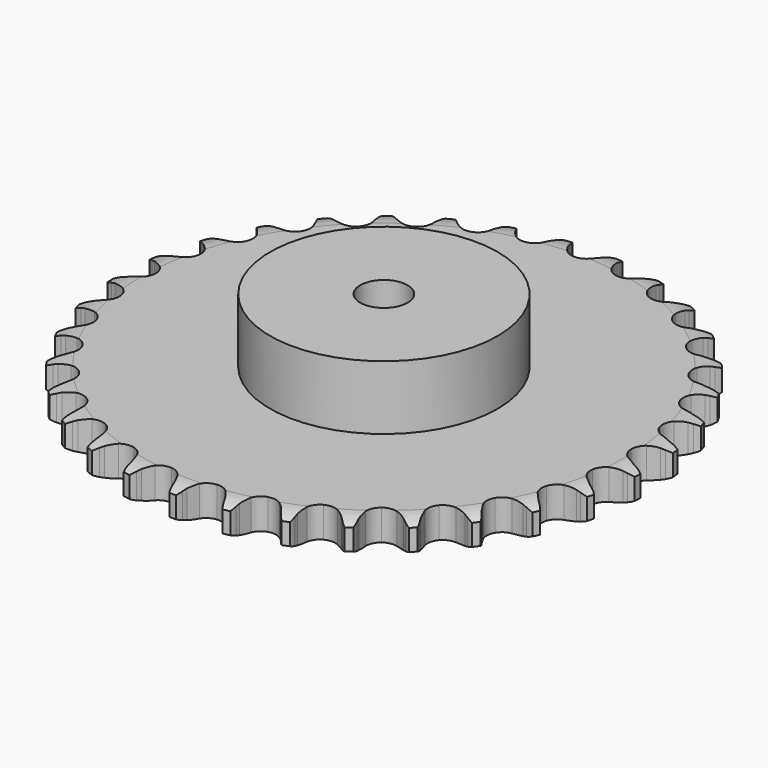
from build123d import *

# Parameters (mm, degrees)
PAD_DEPTH         = 16.2
SKETCH001_R       = 60
PAD001_DEPTH      = 50
SKETCH002_R       = 12.5
POCKET_DEPTH      = 0.0010001
POCKET_DEPTH_BACK = 50.001


with BuildPart() as part:
    # Sprocket → Pad (new body)
    with BuildSketch(Plane.XY):
        with BuildLine():
            ThreePointArc((-13.4743174751, 141.1094366651), (-11.4369527864, 138.7768297397), (-10.0122338266, 136.0269050446))
            Line((-10.0122338266, 136.0269050446), (-9.2375381182, 133.9565564462))
            ThreePointArc((-9.2375381182, 133.9565564462), (-8.0117576866, 131.2780970466), (-6.4185795615, 128.8005042868))
            ThreePointArc((-6.4185795615, 128.8005042868), (-3.5889052668, 126.4356733927), (0, 125.5875927614))
            ThreePointArc((0, 125.5875927614), (3.5889052668, 126.4356733927), (6.4185795615, 128.8005042868))
            ThreePointArc((6.4185795615, 128.8005042868), (8.0117576866, 131.2780970466), (9.2375381182, 133.9565564462))
            Line((9.2375381182, 133.9565564462), (10.0122338266, 136.0269050446))
            ThreePointArc((10.0122338266, 136.0269050446), (11.4369527864, 138.7768297397), (13.4743174751, 141.1094366651))
            ThreePointArc((13.4743174751, 141.1094366651), (15.0334155665, 138.4334091831), (15.9119613282, 135.4635493736))
            Line((15.9119613282, 135.4635493736), (16.2808412274, 133.2840025447))
            ThreePointArc((16.2808412274, 133.2840025447), (16.9775684353, 130.4219659238), (18.0730682434, 127.6876355502))
            ThreePointArc((18.0730682434, 127.6876355502), (20.4040594479, 124.8300208497), (23.7676082063, 123.3180613526))
            ThreePointArc((23.7676082063, 123.3180613526), (27.4521575944, 123.4716112744), (30.6782431776, 125.2581872121))
            Line((30.6782431776, 125.2581872121), (34.422048768, 129.7875713773))
            ThreePointArc((34.422048768, 129.7875713773), (34.973133415, 130.7461119455), (35.5745607642, 131.6738939526))
            ThreePointArc((35.5745607642, 131.6738939526), (37.4939598668, 134.1044940901), (39.9359554847, 136.009373967))
            ThreePointArc((39.9359554847, 136.009373967), (40.9604371115, 133.0866445338), (41.2610567423, 130.0041880815))
            Line((41.2610567423, 130.0041880815), (41.2107885516, 127.7942175232))
            ThreePointArc((41.2107885516, 127.7942175232), (41.3532809994, 124.8520451414), (41.9115082731, 121.9598029779))
            ThreePointArc((41.9115082731, 121.9598029779), (43.6595682918, 118.7126861117), (46.6761931262, 116.5914939044))
            ThreePointArc((46.6761931262, 116.5914939044), (50.3232174206, 116.0449634225), (53.8291151539, 117.1887128945))
            Line((53.8291151539, 117.1887128945), (58.3624568896, 120.9277253206))
            ThreePointArc((58.3624568896, 120.9277253206), (59.0849877144, 121.7646503569), (59.8511303872, 122.5618452602))
            ThreePointArc((59.8511303872, 122.5618452602), (62.1958375481, 124.5852726181), (64.9542040109, 125.9935781247))
            ThreePointArc((64.9542040109, 125.9935781247), (65.407041738, 122.9297817973), (65.1188700611, 119.8461367094))
            Line((65.1188700611, 119.8461367094), (64.651270604, 117.6856165158))
            ThreePointArc((64.651270604, 117.6856165158), (64.2343782432, 114.7696461488), (64.2351571945, 111.8240253628))
            ThreePointArc((64.2351571945, 111.8240253628), (65.3371065839, 108.3047655947), (67.8977788128, 105.6510060903))
            ThreePointArc((67.8977788128, 105.6510060903), (71.3754650533, 104.4241482403), (75.0344626582, 104.8837331607))
            Line((75.0344626582, 104.8837331607), (80.1934937572, 107.6972361968))
            ThreePointArc((80.1934937572, 107.6972361968), (81.0613566133, 108.3822970496), (81.9645242174, 109.0200921483))
            ThreePointArc((81.9645242174, 109.0200921483), (84.6497956107, 110.56321479), (87.6248383677, 111.424046096))
            ThreePointArc((87.6248383677, 111.424046096), (87.4896654597, 108.3299164561), (86.6231177504, 105.3565337006))
            Line((86.6231177504, 105.3565337006), (85.7550872895, 103.3235507006))
            ThreePointArc((85.7550872895, 103.3235507006), (84.7938776963, 100.5391731149), (84.2371801717, 97.6466361164))
            ThreePointArc((84.2371801717, 97.6466361164), (84.6531916098, 93.9824286639), (86.6653618672, 90.8920156451))
            ThreePointArc((86.6653618672, 90.8920156451), (89.8480174121, 89.0291722662), (93.5278691816, 88.7879820386))
            Line((93.5278691816, 88.7879820386), (99.1261288184, 90.5742883543))
            ThreePointArc((99.1261288184, 90.5742883543), (100.1079568809, 91.0827251397), (101.1155065859, 91.5380688571))
            ThreePointArc((101.1155065859, 91.5380688571), (104.0442895071, 92.5451143098), (107.1284827616, 92.8273587288))
            ThreePointArc((107.1284827616, 92.8273587288), (106.4101847196, 89.8147256834), (104.9965802698, 87.0590710601))
            Line((104.9965802698, 87.0590710601), (103.7594916877, 85.2271025562))
            ThreePointArc((103.7594916877, 85.2271025562), (102.2887054812, 82.6749524124), (101.1946519797, 79.9400430249))
            ThreePointArc((101.1946519797, 79.9400430249), (100.9096897292, 76.2633218923), (102.3006329393, 72.8479509377))
            ThreePointArc((102.3006329393, 72.8479509377), (105.0732283248, 70.4164500432), (108.6409348283, 69.4832019107))
            Line((108.6409348283, 69.4832019107), (114.4760873134, 70.1777497417))
            ThreePointArc((114.4760873134, 70.1777497417), (115.5363947581, 70.4911862294), (116.6119110925, 70.7476212573))
            ThreePointArc((116.6119110925, 70.7476212573), (119.6783516959, 71.1821922744), (122.7602246679, 70.8756487578))
            ThreePointArc((122.7602246679, 70.8756487578), (121.4847626547, 68.0533967145), (119.5751928124, 65.6150667613))
            Line((119.5751928124, 65.6150667613), (118.0137577135, 64.0503248684))
            ThreePointArc((118.0137577135, 64.0503248684), (116.0865529393, 61.8226435223), (114.4946854051, 59.3442084968))
            ThreePointArc((114.4946854051, 59.3442084968), (113.5190487441, 55.7878599654), (114.2384925953, 52.1709714799))
            ThreePointArc((114.2384925953, 52.1709714799), (116.5008190003, 49.2586938473), (119.8274340291, 47.6671178291))
            Line((119.8274340291, 47.6671178291), (125.6885817485, 47.2448044072))
            ThreePointArc((125.6885817485, 47.2448044072), (126.7890463016, 47.3519121859), (127.8936573029, 47.4001702941))
            ThreePointArc((127.8936573029, 47.4001702941), (130.9869264356, 47.2465603469), (133.9550922061, 46.362308176))
            ThreePointArc((133.9550922061, 46.362308176), (132.1685647419, 43.832440677), (129.8320463366, 41.7995629914))
            Line((129.8320463366, 41.7995629914), (128.0026990537, 40.5586015584))
            ThreePointArc((128.0026990537, 40.5586015584), (125.6887299136, 38.7359032179), (123.656582587, 36.6035196538))
            ThreePointArc((123.656582587, 36.6035196538), (122.0255335665, 33.2960794254), (122.0474754834, 29.6083971826))
            ThreePointArc((122.0474754834, 29.6083971826), (123.7177665372, 26.3206001136), (126.6830575568, 24.1282199137))
            Line((126.6830575568, 24.1282199137), (132.3583633607, 22.6043087462))
            ThreePointArc((132.3583633607, 22.6043087462), (133.4592113662, 22.5012166617), (134.5529935146, 22.3395536765))
            ThreePointArc((134.5529935146, 22.3395536765), (137.5612923707, 21.6033146287), (140.3084736954, 20.173312981))
            ThreePointArc((140.3084736954, 20.173312981), (138.0754505376, 18.027266029), (135.3964314321, 16.4733141072))
            Line((135.3964314321, 16.4733141072), (133.3652893424, 15.6009847136))
            ThreePointArc((133.3652893424, 15.6009847136), (130.7481887101, 14.2491464458), (128.34920869, 12.5398842409))
            ThreePointArc((128.34920869, 12.5398842409), (126.1216976713, 9.600891823), (125.445344616, 5.9756982673))
            ThreePointArc((125.445344616, 5.9756982673), (126.4632316479, 2.431211314), (128.9600253148, -0.2827347349))
            Line((128.9600253148, -0.2827347349), (134.2443688647, -2.8531655279))
            ThreePointArc((134.2443688647, -2.8531655279), (135.3058128073, -3.1627314589), (136.3492339664, -3.528472616))
            ThreePointArc((136.3492339664, -3.528472616), (139.1638347871, -4.8207311671), (141.5907413752, -6.7447983063))
            ThreePointArc((141.5907413752, -6.7447983063), (138.9919297988, -8.4294609828), (136.0672367236, -9.4483232696))
            Line((136.0672367236, -9.4483232696), (133.9077105943, -9.9204923667))
            ThreePointArc((133.9077105943, -9.9204923667), (131.0820673055, -10.7526116046), (128.4029599804, -11.9769752607))
            ThreePointArc((128.4029599804, -11.9769752607), (125.6594950154, -14.4412970249), (124.3092921494, -17.872977953))
            ThreePointArc((124.3092921494, -17.872977953), (124.6379860701, -21.5460477969), (126.576041756, -24.6834706135))
            Line((126.576041756, -24.6834706135), (131.2784331077, -28.2075189659))
            ThreePointArc((131.2784331077, -28.2075189659), (132.2621096378, -28.7123702243), (133.2174578481, -29.2689707149))
            ThreePointArc((133.2174578481, -29.2689707149), (135.7366336265, -31.0705431782), (137.7555507505, -33.4191350094))
            ThreePointArc((137.7555507505, -33.4191350094), (134.8848785771, -34.5815253119), (131.8202175603, -35.028473626))
            Line((131.8202175603, -35.028473626), (129.6103582922, -35.0834170053))
            ThreePointArc((129.6103582922, -35.0834170053), (126.6782984575, -35.365742256), (123.8158937465, -36.0609556708))
            ThreePointArc((123.8158937465, -36.0609556708), (120.655630807, -37.9615397718), (118.6803779799, -41.0756781824))
            ThreePointArc((118.6803779799, -41.0756781824), (118.3079989347, -44.7445766027), (119.6172702574, -48.1920815519))
            Line((119.6172702574, -48.1920815519), (123.5677527355, -52.5423791745))
            ThreePointArc((123.5677527355, -52.5423791745), (124.4381092204, -53.2242691203), (125.2708557085, -53.9516119526))
            ThreePointArc((125.2708557085, -53.9516119526), (127.4035568683, -56.1973848053), (128.9415156032, -58.8856171005))
            ThreePointArc((128.9415156032, -58.8856171005), (125.9027364044, -59.483723215), (122.8088722801, -59.3426036799))
            Line((122.8088722801, -59.3426036799), (120.628549945, -58.9783355443))
            ThreePointArc((120.628549945, -58.9783355443), (117.6960458462, -58.7006628377), (114.7537985134, -58.841599187))
            ThreePointArc((114.7537985134, -58.841599187), (111.2909577361, -60.1097535635), (108.7620457315, -62.7937963807))
            ThreePointArc((108.7620457315, -62.7937963807), (107.7020524693, -66.3259198292), (108.3352189519, -69.9589050999))
            Line((108.3352189519, -69.9589050999), (111.3910118268, -74.9782209019))
            ThreePointArc((111.3910118268, -74.9782209019), (112.1165913154, -75.8125042559), (112.7966384535, -76.6843013648))
            ThreePointArc((112.7966384535, -76.6843013648), (114.4657836181, -79.2931065247), (115.4671981282, -82.2238195646))
            ThreePointArc((115.4671981282, -82.2238195646), (112.3701413018, -82.2360243777), (109.3588943803, -81.511937421))
            Line((109.3588943803, -81.511937421), (107.2869115081, -80.7416233702))
            ThreePointArc((107.2869115081, -80.7416233702), (104.4599514839, -79.9139885214), (101.5442020139, -79.4955539983))
            ThreePointArc((101.5442020139, -79.4955539983), (97.9039394868, -80.085444247), (94.9127697736, -82.2423831702))
            ThreePointArc((94.9127697736, -82.2423831702), (93.2034732126, -85.5100715026), (93.1376505689, -89.1972315414))
            Line((93.1376505689, -89.1972315414), (95.1883095242, -94.7041543721))
            ThreePointArc((95.1883095242, -94.7041543721), (95.7428876834, -95.6606779601), (96.2456567961, -96.6454203266))
            ThreePointArc((96.2456567961, -96.6454203266), (97.3909187103, -99.5229687782), (97.8195952659, -102.5902389576))
            ThreePointArc((97.8195952659, -102.5902389576), (94.776196515, -102.0161013556), (91.9564011058, -100.7352173666))
            Line((91.9564011058, -100.7352173666), (90.067644556, -99.5866985573))
            ThreePointArc((90.067644556, -99.5866985573), (87.4484023072, -98.239014446), (84.6645334828, -97.2763323644))
            ThreePointArc((84.6645334828, -97.2763323644), (80.9784177783, -97.1666383148), (77.6330990233, -98.7185159514))
            ThreePointArc((77.6330990233, -98.7185159514), (75.3362775948, -101.6036663976), (74.5738448265, -105.2117376338))
            Line((74.5738448265, -105.2117376338), (75.5452537048, -111.0072329539))
            ThreePointArc((75.5452537048, -111.0072329539), (75.9087866348, -112.0514255214), (76.2161063364, -113.1135219906))
            ThreePointArc((76.2161063364, -113.1135219906), (76.7960922507, -116.1558116354), (76.6365373642, -119.2487798184))
            ThreePointArc((76.6365373642, -119.2487798184), (73.7567930491, -118.1090506302), (71.2303639052, -116.3176640934))
            Line((71.2303639052, -116.3176640934), (69.5930982607, -114.8324509879))
            ThreePointArc((69.5930982607, -114.8324509879), (67.2762400266, -113.0134264293), (64.7248681204, -111.5412906279))
            ThreePointArc((64.7248681204, -111.5412906279), (61.126125064, -110.7359769088), (57.5475658032, -111.6267043576))
            ThreePointArc((57.5475658032, -111.6267043576), (54.746232618, -114.0250400632), (53.3147460318, -117.4236174017))
            Line((53.3147460318, -117.4236174017), (53.1717955852, -123.2982209104))
            ThreePointArc((53.1717955852, -123.2982209104), (53.3311442588, -124.3923426171), (53.4319072146, -125.4934062555))
            ThreePointArc((53.4319072146, -125.4934062555), (53.4256549269, -128.5904808191), (52.6836353277, -131.5973590769))
            ThreePointArc((52.6836353277, -131.5973590769), (50.071626911, -129.9332310848), (47.9298757642, -127.6960873772))
            Line((47.9298757642, -127.6960873772), (46.6032760712, -125.9278594468))
            ThreePointArc((46.6032760712, -125.9278594468), (44.6725391448, -123.7032387279), (42.445877385, -121.7748560301))
            ThreePointArc((42.445877385, -121.7748560301), (39.0645749274, -120.3030287774), (35.3821136162, -120.5004128277))
            ThreePointArc((35.3821136162, -120.5004128277), (32.1775161544, -122.3252516916), (30.1287134054, -125.3915016924))
            Line((30.1287134054, -125.3915016924), (28.8765702354, -131.1328899127))
            ThreePointArc((28.8765702354, -131.1328899127), (28.8259753764, -132.2373963497), (28.7165397507, -133.3376318485))
            ThreePointArc((28.7165397507, -133.3376318485), (28.1242752348, -136.3775549867), (26.8266094445, -139.1896669048))
            ThreePointArc((26.8266094445, -139.1896669048), (24.576741716, -137.0612860303), (22.8970770331, -134.4592413542))
            Line((22.8970770331, -134.4592413542), (21.9290900608, -132.4719069634))
            ThreePointArc((21.9290900608, -132.4719069634), (20.4542563053, -129.9220936731), (18.6327820493, -127.6071608541))
            ThreePointArc((18.6327820493, -127.6071608541), (15.5911292711, -125.5220157396), (11.937859656, -125.0189224175))
            ThreePointArc((11.937859656, -125.0189224175), (8.4458204193, -126.2043100085), (5.8537505768, -128.8274104076))
            Line((5.8537505768, -128.8274104076), (3.5376704001, -134.2280746102))
            ThreePointArc((3.5376704001, -134.2280746102), (3.2789606385, -135.3030460369), (2.9632817199, -136.3626880186))
            ThreePointArc((2.9632817199, -136.3626880186), (1.8064109587, -139.2355889889), (0, -141.7512975156))
            ThreePointArc((0, -141.7512975156), (-1.8064109587, -139.2355889889), (-2.9632817199, -136.3626880186))
            Line((-2.9632817199, -136.3626880186), (-3.5376704001, -134.2280746102))
            ThreePointArc((-3.5376704001, -134.2280746102), (-4.5032966503, -131.4452256443), (-5.8537505768, -128.8274104076))
            ThreePointArc((-5.8537505768, -128.8274104076), (-8.4458204193, -126.2043100085), (-11.937859656, -125.0189224175))
            ThreePointArc((-11.937859656, -125.0189224175), (-15.5911292711, -125.5220157396), (-18.6327820493, -127.6071608541))
            Line((-18.6327820493, -127.6071608541), (-21.9290900608, -132.4719069634))
            ThreePointArc((-21.9290900608, -132.4719069634), (-22.3865642801, -133.4784911118), (-22.8970770331, -134.4592413542))
            ThreePointArc((-22.8970770331, -134.4592413542), (-24.576741716, -137.0612860303), (-26.8266094445, -139.1896669048))
            ThreePointArc((-26.8266094445, -139.1896669048), (-28.1242752348, -136.3775549867), (-28.7165397507, -133.3376318485))
            Line((-28.7165397507, -133.3376318485), (-28.8765702354, -131.1328899127))
            ThreePointArc((-28.8765702354, -131.1328899127), (-29.2980887316, -128.2175846836), (-30.1287134054, -125.3915016924))
            ThreePointArc((-30.1287134054, -125.3915016924), (-32.1775161544, -122.3252516916), (-35.3821136162, -120.5004128277))
            ThreePointArc((-35.3821136162, -120.5004128277), (-39.0645749274, -120.3030287774), (-42.445877385, -121.7748560301))
            Line((-42.445877385, -121.7748560301), (-46.6032760712, -125.9278594468))
            ThreePointArc((-46.6032760712, -125.9278594468), (-47.242980438, -126.829675743), (-47.9298757642, -127.6960873772))
            ThreePointArc((-47.9298757642, -127.6960873772), (-50.071626911, -129.9332310848), (-52.6836353277, -131.5973590769))
            ThreePointArc((-52.6836353277, -131.5973590769), (-53.4256549269, -128.5904808191), (-53.4319072146, -125.4934062555))
            Line((-53.4319072146, -125.4934062555), (-53.1717955852, -123.2982209104))
            ThreePointArc((-53.1717955852, -123.2982209104), (-53.0339715507, -120.3558261447), (-53.3147460318, -117.4236174017))
            ThreePointArc((-53.3147460318, -117.4236174017), (-54.746232618, -114.0250400632), (-57.5475658032, -111.6267043576))
            ThreePointArc((-57.5475658032, -111.6267043576), (-61.126125064, -110.7359769088), (-64.7248681204, -111.5412906279))
            Line((-64.7248681204, -111.5412906279), (-69.5930982607, -114.8324509879))
            ThreePointArc((-69.5930982607, -114.8324509879), (-70.3919121925, -115.5969054414), (-71.2303639052, -116.3176640934))
            ThreePointArc((-71.2303639052, -116.3176640934), (-73.7567930491, -118.1090506302), (-76.6365373642, -119.2487798184))
            ThreePointArc((-76.6365373642, -119.2487798184), (-76.7960922507, -116.1558116354), (-76.2161063364, -113.1135219906))
            Line((-76.2161063364, -113.1135219906), (-75.5452537048, -111.0072329539))
            ThreePointArc((-75.5452537048, -111.0072329539), (-74.8530684594, -108.1440944648), (-74.5738448265, -105.2117376338))
            ThreePointArc((-74.5738448265, -105.2117376338), (-75.3362775948, -101.6036663976), (-77.6330990233, -98.7185159514))
            ThreePointArc((-77.6330990233, -98.7185159514), (-80.9784177783, -97.1666383148), (-84.6645334828, -97.2763323644))
            Line((-84.6645334828, -97.2763323644), (-90.067644556, -99.5866985573))
            ThreePointArc((-90.067644556, -99.5866985573), (-90.996696836, -100.1861617923), (-91.9564011058, -100.7352173666))
            ThreePointArc((-91.9564011058, -100.7352173666), (-94.776196515, -102.0161013556), (-97.8195952659, -102.5902389576))
            ThreePointArc((-97.8195952659, -102.5902389576), (-97.3909187103, -99.5229687782), (-96.2456567961, -96.6454203266))
            Line((-96.2456567961, -96.6454203266), (-95.1883095242, -94.7041543721))
            ThreePointArc((-95.1883095242, -94.7041543721), (-93.9667804462, -92.0237534444), (-93.1376505689, -89.1972315414))
            ThreePointArc((-93.1376505689, -89.1972315414), (-93.2034732126, -85.5100715026), (-94.9127697736, -82.2423831702))
            ThreePointArc((-94.9127697736, -82.2423831702), (-97.9039394868, -80.085444247), (-101.5442020139, -79.4955539983))
            Line((-101.5442020139, -79.4955539983), (-107.2869115081, -80.7416233702))
            ThreePointArc((-107.2869115081, -80.7416233702), (-108.3126237663, -81.1544292236), (-109.3588943803, -81.511937421))
            ThreePointArc((-109.3588943803, -81.511937421), (-112.3701413018, -82.2360243777), (-115.4671981282, -82.2238195646))
            ThreePointArc((-115.4671981282, -82.2238195646), (-114.4657836181, -79.2931065247), (-112.7966384535, -76.6843013648))
            Line((-112.7966384535, -76.6843013648), (-111.3910118268, -74.9782209019))
            ThreePointArc((-111.3910118268, -74.9782209019), (-109.6842881595, -72.5774342089), (-108.3352189519, -69.9589050999))
            ThreePointArc((-108.3352189519, -69.9589050999), (-107.7020524693, -66.3259198292), (-108.7620457315, -62.7937963807))
            ThreePointArc((-108.7620457315, -62.7937963807), (-111.2909577361, -60.1097535635), (-114.7537985134, -58.841599187))
            Line((-114.7537985134, -58.841599187), (-120.628549945, -58.9783355443))
            ThreePointArc((-120.628549945, -58.9783355443), (-121.7138502678, -59.1895641369), (-122.8088722801, -59.3426036799))
            ThreePointArc((-122.8088722801, -59.3426036799), (-125.9027364044, -59.483723215), (-128.9415156032, -58.8856171005))
            ThreePointArc((-128.9415156032, -58.8856171005), (-127.4035568683, -56.1973848053), (-125.2708557085, -53.9516119526))
            Line((-125.2708557085, -53.9516119526), (-123.5677527355, -52.5423791745))
            ThreePointArc((-123.5677527355, -52.5423791745), (-121.4375199192, -50.5079774024), (-119.6172702574, -48.1920815519))
            ThreePointArc((-119.6172702574, -48.1920815519), (-118.3079989347, -44.7445766027), (-118.6803779799, -41.0756781824))
            ThreePointArc((-118.6803779799, -41.0756781824), (-120.655630807, -37.9615397718), (-123.8158937465, -36.0609556708))
            Line((-123.8158937465, -36.0609556708), (-129.6103582922, -35.0834170053))
            ThreePointArc((-129.6103582922, -35.0834170053), (-130.7160210984, -35.0854339854), (-131.8202175603, -35.028473626))
            ThreePointArc((-131.8202175603, -35.028473626), (-134.8848785771, -34.5815253119), (-137.7555507505, -33.4191350094))
            ThreePointArc((-137.7555507505, -33.4191350094), (-135.7366336265, -31.0705431782), (-133.2174578481, -29.2689707149))
            Line((-133.2174578481, -29.2689707149), (-131.2784331077, -28.2075189659))
            ThreePointArc((-131.2784331077, -28.2075189659), (-128.8016833066, -26.6130306954), (-126.576041756, -24.6834706135))
            ThreePointArc((-126.576041756, -24.6834706135), (-124.6379860701, -21.5460477969), (-124.3092921494, -17.872977953))
            ThreePointArc((-124.3092921494, -17.872977953), (-125.6594950154, -14.4412970249), (-128.4029599804, -11.9769752607))
            Line((-128.4029599804, -11.9769752607), (-133.9077105943, -9.9204923667))
            ThreePointArc((-133.9077105943, -9.9204923667), (-134.9937743492, -9.7132248355), (-136.0672367236, -9.4483232696))
            ThreePointArc((-136.0672367236, -9.4483232696), (-138.9919297988, -8.4294609828), (-141.5907413752, -6.7447983063))
            ThreePointArc((-141.5907413752, -6.7447983063), (-139.1638347871, -4.8207311671), (-136.3492339664, -3.528472616))
            Line((-136.3492339664, -3.528472616), (-134.2443688647, -2.8531655279))
            ThreePointArc((-134.2443688647, -2.8531655279), (-131.5106182698, -1.7562197195), (-128.9600253148, -0.2827347349))
            ThreePointArc((-128.9600253148, -0.2827347349), (-126.4632316479, 2.431211314), (-125.445344616, 5.9756982673))
            ThreePointArc((-125.445344616, 5.9756982673), (-126.1216976713, 9.600891823), (-128.34920869, 12.5398842409))
            Line((-128.34920869, 12.5398842409), (-133.3652893424, 15.6009847136))
            ThreePointArc((-133.3652893424, 15.6009847136), (-134.3925008721, 16.0100455675), (-135.3964314321, 16.4733141072))
            ThreePointArc((-135.3964314321, 16.4733141072), (-138.0754505376, 18.027266029), (-140.3084736954, 20.173312981))
            ThreePointArc((-140.3084736954, 20.173312981), (-137.5612923707, 21.6033146287), (-134.5529935146, 22.3395536765))
            Line((-134.5529935146, 22.3395536765), (-132.3583633607, 22.6043087462))
            ThreePointArc((-132.3583633607, 22.6043087462), (-129.4664168412, 23.1640656129), (-126.6830575568, 24.1282199137))
            ThreePointArc((-126.6830575568, 24.1282199137), (-123.7177665372, 26.3206001136), (-122.0474754834, 29.6083971826))
            ThreePointArc((-122.0474754834, 29.6083971826), (-122.0255335665, 33.2960794254), (-123.656582587, 36.6035196538))
            Line((-123.656582587, 36.6035196538), (-128.0026990537, 40.5586015584))
            ThreePointArc((-128.0026990537, 40.5586015584), (-128.9339322573, 41.15467121), (-129.8320463366, 41.7995629914))
            ThreePointArc((-129.8320463366, 41.7995629914), (-132.1685647419, 43.832440677), (-133.9550922061, 46.362308176))
            ThreePointArc((-133.9550922061, 46.362308176), (-130.9869264356, 47.2465603469), (-127.8936573029, 47.4001702941))
            Line((-127.8936573029, 47.4001702941), (-125.6885817485, 47.2448044072))
            ThreePointArc((-125.6885817485, 47.2448044072), (-122.7429617864, 47.2471412607), (-119.8274340291, 47.6671178291))
            ThreePointArc((-119.8274340291, 47.6671178291), (-116.5008190003, 49.2586938473), (-114.2384925953, 52.1709714799))
            ThreePointArc((-114.2384925953, 52.1709714799), (-113.5190487441, 55.7878599654), (-114.4946854051, 59.3442084968))
            Line((-114.4946854051, 59.3442084968), (-118.0137577135, 64.0503248684))
            ThreePointArc((-118.0137577135, 64.0503248684), (-118.8153553966, 64.8118598075), (-119.5751928124, 65.6150667613))
            ThreePointArc((-119.5751928124, 65.6150667613), (-121.4847626547, 68.0533967145), (-122.7602246679, 70.8756487578))
            ThreePointArc((-122.7602246679, 70.8756487578), (-119.6783516959, 71.1821922744), (-116.6119110925, 70.7476212573))
            Line((-116.6119110925, 70.7476212573), (-114.4760873134, 70.1777497417))
            ThreePointArc((-114.4760873134, 70.1777497417), (-111.583256289, 69.6225821221), (-108.6409348283, 69.4832019107))
            ThreePointArc((-108.6409348283, 69.4832019107), (-105.0732283248, 70.4164500432), (-102.3006329393, 72.8479509377))
            ThreePointArc((-102.3006329393, 72.8479509377), (-100.9096897292, 76.2633218923), (-101.1946519797, 79.9400430249))
            Line((-101.1946519797, 79.9400430249), (-103.7594916877, 85.2271025562))
            ThreePointArc((-103.7594916877, 85.2271025562), (-104.4024820216, 86.1265789259), (-104.9965802698, 87.0590710601))
            ThreePointArc((-104.9965802698, 87.0590710601), (-106.4101847196, 89.8147256834), (-107.1284827616, 92.8273587288))
            ThreePointArc((-107.1284827616, 92.8273587288), (-104.0442895071, 92.5451143098), (-101.1155065859, 91.5380688571))
            Line((-101.1155065859, 91.5380688571), (-99.1261288184, 90.5742883543))
            ThreePointArc((-99.1261288184, 90.5742883543), (-96.390641182, 89.4816814657), (-93.5278691816, 88.7879820386))
            ThreePointArc((-93.5278691816, 88.7879820386), (-89.8480174121, 89.0291722662), (-86.6653618672, 90.8920156451))
            ThreePointArc((-86.6653618672, 90.8920156451), (-84.6531916098, 93.9824286639), (-84.2371801717, 97.6466361164))
            Line((-84.2371801717, 97.6466361164), (-85.7550872895, 103.3235507006))
            ThreePointArc((-85.7550872895, 103.3235507006), (-86.2162309282, 104.3284590813), (-86.6231177504, 105.3565337006))
            ThreePointArc((-86.6231177504, 105.3565337006), (-87.4896654597, 108.3299164561), (-87.6248383677, 111.424046096))
            ThreePointArc((-87.6248383677, 111.424046096), (-84.6497956107, 110.56321479), (-81.9645242174, 109.0200921483))
            Line((-81.9645242174, 109.0200921483), (-80.1934937572, 107.6972361968))
            ThreePointArc((-80.1934937572, 107.6972361968), (-77.7142171594, 106.1066796989), (-75.0344626582, 104.8837331607))
            ThreePointArc((-75.0344626582, 104.8837331607), (-71.3754650533, 104.4241482403), (-67.8977788128, 105.6510060903))
            ThreePointArc((-67.8977788128, 105.6510060903), (-65.3371065839, 108.3047655947), (-64.2351571945, 111.8240253628))
            Line((-64.2351571945, 111.8240253628), (-64.651270604, 117.6856165158))
            ThreePointArc((-64.651270604, 117.6856165158), (-64.9139006149, 118.7596369003), (-65.1188700611, 119.8461367094))
            ThreePointArc((-65.1188700611, 119.8461367094), (-65.407041738, 122.9297817973), (-64.9542040109, 125.9935781247))
            ThreePointArc((-64.9542040109, 125.9935781247), (-62.1958375481, 124.5852726181), (-59.8511303872, 122.5618452602))
            Line((-59.8511303872, 122.5618452602), (-58.3624568896, 120.9277253206))
            ThreePointArc((-58.3624568896, 120.9277253206), (-56.2289988461, 118.8967060695), (-53.8291151539, 117.1887128945))
            ThreePointArc((-53.8291151539, 117.1887128945), (-50.3232174206, 116.0449634225), (-46.6761931262, 116.5914939044))
            ThreePointArc((-46.6761931262, 116.5914939044), (-43.6595682918, 118.7126861117), (-41.9115082731, 121.9598029779))
            Line((-41.9115082731, 121.9598029779), (-41.2107885516, 127.7942175232))
            ThreePointArc((-41.2107885516, 127.7942175232), (-41.2654128018, 128.8985320166), (-41.2610567423, 130.0041880815))
            ThreePointArc((-41.2610567423, 130.0041880815), (-40.9604371115, 133.0866445338), (-39.9359554847, 136.009373967))
            ThreePointArc((-39.9359554847, 136.009373967), (-37.4939598668, 134.1044940901), (-35.5745607642, 131.6738939526))
            Line((-35.5745607642, 131.6738939526), (-34.422048768, 129.7875713773))
            ThreePointArc((-34.422048768, 129.7875713773), (-32.7115180114, 127.3894957004), (-30.6782431776, 125.2581872121))
            ThreePointArc((-30.6782431776, 125.2581872121), (-27.4521575944, 123.4716112744), (-23.7676082063, 123.3180613526))
            ThreePointArc((-23.7676082063, 123.3180613526), (-20.4040594479, 124.8300208497), (-18.0730682434, 127.6876355502))
            Line((-18.0730682434, 127.6876355502), (-16.2808412274, 133.2840025447))
            ThreePointArc((-16.2808412274, 133.2840025447), (-16.1254854541, 134.3786983439), (-15.9119613282, 135.4635493736))
            ThreePointArc((-15.9119613282, 135.4635493736), (-15.0334155665, 138.4334091831), (-13.4743174751, 141.1094366651))
        make_face()
    extrude(amount=PAD_DEPTH)

    # Sketch → Groove (revolve, cut)
    with BuildSketch(Plane.XZ):
        with BuildLine():
            Line((128.1257022694, 0), (139.25, 0))
            Line((150.3742977306, 0), (139.25, 0))
            Line((150.3742977306, 16.2), (150.3742977306, 0))
            Line((139.25, 16.2), (150.3742977306, 16.2))
            Line((128.1257022694, 16.2), (139.25, 16.2))
            ThreePointArc((139.25, 13.7), (133.8265793949, 15.5673017879), (128.1257022694, 16.2))
            Line((139.25, 2.5), (139.25, 13.7))
            ThreePointArc((128.1257022694, 0), (133.8265793949, 0.6326982121), (139.25, 2.5))
        make_face()
    revolve(axis=Axis((0, 0, 0), (0, 0, 1)), mode=Mode.SUBTRACT)

    # Sketch001 → Pad001 (join)
    with BuildSketch(Plane.XY):
        Circle(SKETCH001_R)
    extrude(amount=PAD001_DEPTH)

    # Sketch002 → Pocket (cut, two sides)
    with BuildSketch(Plane.XY) as pocket_sk:
        Circle(SKETCH002_R)
    extrude(amount=-POCKET_DEPTH, mode=Mode.SUBTRACT)
    extrude(pocket_sk.sketch, amount=POCKET_DEPTH_BACK, mode=Mode.SUBTRACT)


solid = part.part
